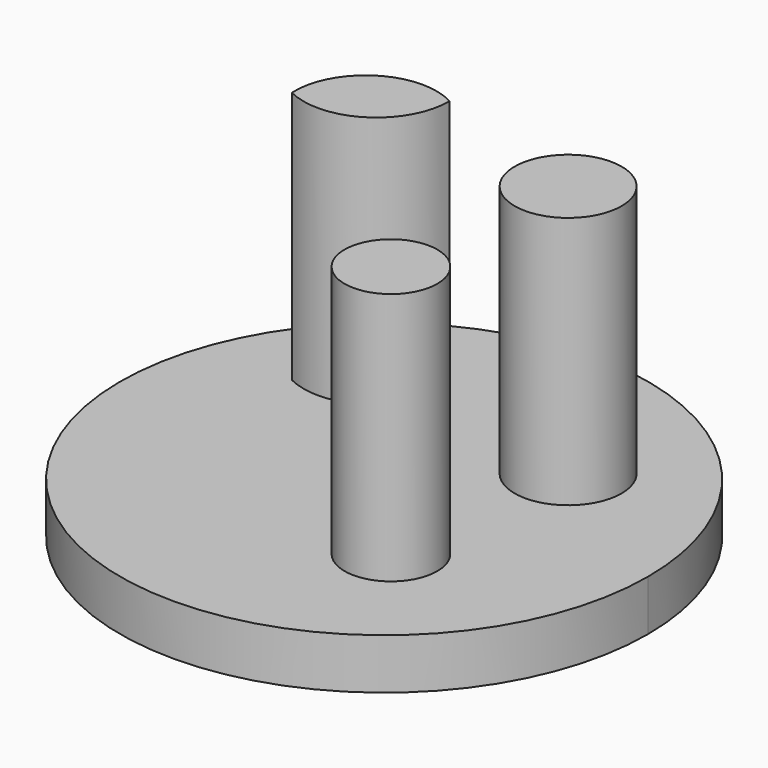
from build123d import *

# Parameters (mm, degrees)
F0_R     = 5.2880711668
F1_DEPTH = 30
F0_R_2   = 4.5835550411
F2_DEPTH = 5


with BuildPart() as f1:
    # F0 (on Top) → F1 (new body)
    with BuildSketch(Plane.XY):
        with Locations((10.5176120996, 9.5877544954)):
            Circle(F0_R)
    extrude(amount=F1_DEPTH)


with BuildPart() as f1b:
    # F0 (on Top) → F1, piece 2 (new body)
    with BuildSketch(Plane.XY):
        with Locations((8.2337511703, -9.4444211572)):
            Circle(F0_R_2)
    extrude(amount=F1_DEPTH)


with BuildPart() as f1c:
    # F0 (on Top) → F1, piece 3 (new body)
    with BuildSketch(Plane.XY):
        with BuildLine():
            ThreePointArc((-5.519674576, 14.9167645723), (-5.5197449138, 14.948550137), (-5.5199559257, 14.9803350791))
            ThreePointArc((-5.5199559257, 14.9803350791), (-12.6151208881, 14.7783296274), (-15.9058179548, 8.4891734947))
            ThreePointArc((-15.9058179548, 8.4891734947), (-8.9221995143, 8.8096805433), (-5.519674576, 14.9167645723))
        make_face()
    extrude(amount=F1_DEPTH)


with BuildPart() as f2:
    # F0 (on Top) → F2 (new body)
    with BuildSketch(Plane.XY):
        with BuildLine():
            ThreePointArc((-19.4399636345, 17.4018595612), (-9.3147750864, -24.3715380596), (26.0909352516, 0))
            ThreePointArc((26.0909352516, 0), (12.5170021778, 22.892390849), (-14.0809906475, 21.9650314064))
            ThreePointArc((-14.0809906475, 21.9650314064), (-8.1614577189, 20.4815993828), (-5.5199559257, 14.9803350791))
            ThreePointArc((-5.5199559257, 14.9803350791), (-2.8556566482, 12.402251755), (-1.8764890711, 8.8264672086))
            ThreePointArc((-1.8764890711, 8.8264672086), (-8.7265125373, 1.8097757522), (-15.9058179548, 8.4891734947))
            ThreePointArc((-15.9058179548, 8.4891734947), (-19.3778917103, 12.2694328451), (-19.4399636345, 17.4018595612))
        make_face()
        with Locations((8.2337511703, -9.4444211572)):
            Circle(F0_R_2, mode=Mode.SUBTRACT)
        with Locations((10.5176120996, 9.5877544954)):
            Circle(F0_R, mode=Mode.SUBTRACT)
        with Locations((8.2337511703, -9.4444211572)):
            Circle(F0_R_2)
        with Locations((10.5176120996, 9.5877544954)):
            Circle(F0_R)
        with BuildLine():
            ThreePointArc((-1.8764890711, 8.8264672086), (-2.8556566482, 12.402251755), (-5.5199559257, 14.9803350791))
            ThreePointArc((-5.5199559257, 14.9803350791), (-5.5197449138, 14.948550137), (-5.519674576, 14.9167645723))
            ThreePointArc((-5.519674576, 14.9167645723), (-8.9221995143, 8.8096805433), (-15.9058179548, 8.4891734947))
            ThreePointArc((-15.9058179548, 8.4891734947), (-8.7265125373, 1.8097757522), (-1.8764890711, 8.8264672086))
        make_face()
        with BuildLine():
            ThreePointArc((-5.519674576, 14.9167645723), (-5.5197449138, 14.948550137), (-5.5199559257, 14.9803350791))
            ThreePointArc((-5.5199559257, 14.9803350791), (-12.6151208881, 14.7783296274), (-15.9058179548, 8.4891734947))
            ThreePointArc((-15.9058179548, 8.4891734947), (-8.9221995143, 8.8096805433), (-5.519674576, 14.9167645723))
        make_face()
        with BuildLine():
            ThreePointArc((-5.5199559257, 14.9803350791), (-8.1614577189, 20.4815993828), (-14.0809906475, 21.9650314064))
            ThreePointArc((-14.0809906475, 21.9650314064), (-16.9150592171, 19.864986131), (-19.4399636345, 17.4018595612))
            ThreePointArc((-19.4399636345, 17.4018595612), (-19.3778917103, 12.2694328451), (-15.9058179548, 8.4891734947))
            ThreePointArc((-15.9058179548, 8.4891734947), (-12.6151208881, 14.7783296274), (-5.5199559257, 14.9803350791))
        make_face()
    extrude(amount=F2_DEPTH)


solid = Compound([f1.part, f1b.part, f1c.part, f2.part])
